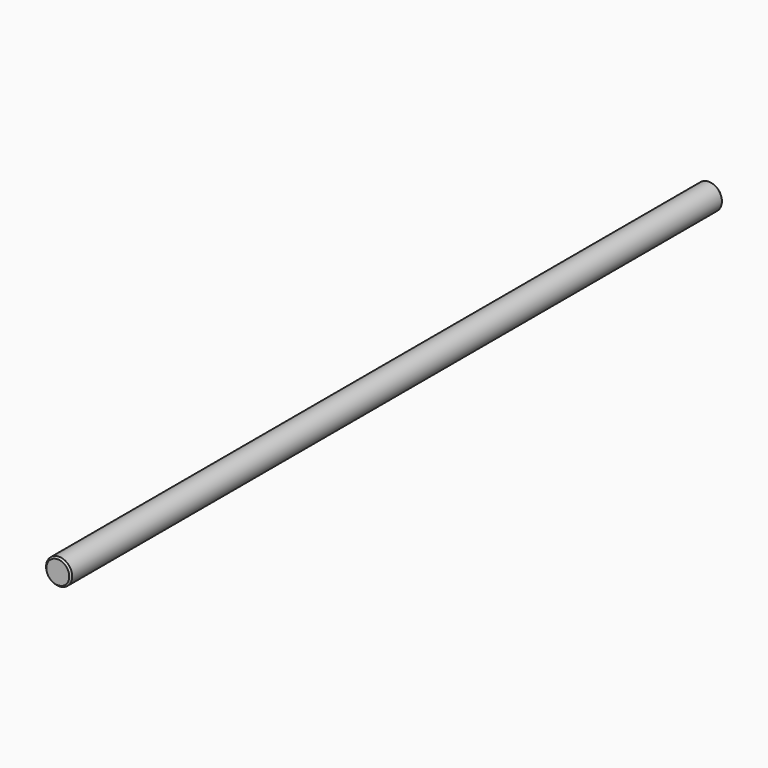
from build123d import *

# Parameters (mm, degrees)
SKETCH_R        = 8
PAD_DEPTH       = 500
CHAMFER_SIZE    = 1
CHAMFER001_SIZE = 1


with BuildPart() as part:
    # Sketch → Pad (new body)
    with BuildSketch(Plane.XZ):
        Circle(SKETCH_R)
    extrude(amount=PAD_DEPTH)

    # Chamfer
    chamfer_edges = [part.edges().sort_by_distance(p)[0] for p in [
        (-8, -500, 0),
    ]]
    chamfer(chamfer_edges, length=CHAMFER_SIZE)

    # Chamfer001
    chamfer001_edges = [part.edges().sort_by_distance(p)[0] for p in [
        (-8, 0, 0),
    ]]
    chamfer(chamfer001_edges, length=CHAMFER001_SIZE)


solid = part.part
